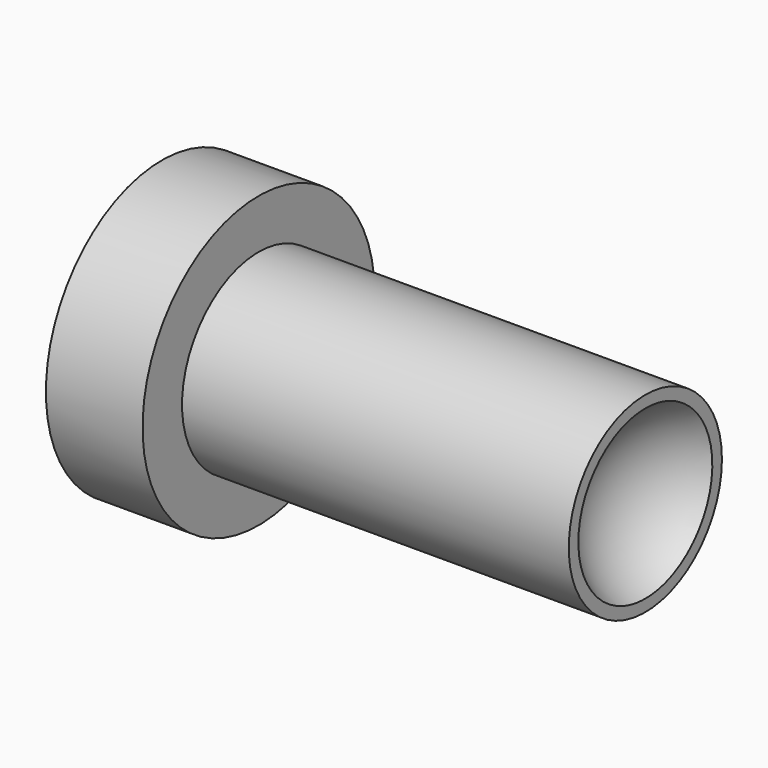
from build123d import *

# Parameters (mm, degrees)
F0_R     = 19.05
F1_DEPTH = 12.7
F2_R     = 12.573
F3_DEPTH = 50.8


with BuildPart() as f1:
    # F0 (on Right) → F1 (new body)
    with BuildSketch(Plane.YZ):
        Circle(F0_R)
    extrude(amount=F1_DEPTH)

    # F2 (on face) → F3 (join)
    with BuildSketch(Plane.YZ.offset(12.7)):
        Circle(F2_R)
    extrude(amount=F3_DEPTH)

    # F5 (on offset) → F6 (revolve, cut)
    with BuildSketch(Plane.YZ.offset(69.85)):
        with BuildLine():
            Line((0, 12.7), (0, -12.7))
            ThreePointArc((0, -12.7), (12.7, 0), (0, 12.7))
        make_face()
    revolve(axis=Axis((69.85, 0, 0), (0, 0, -1)), mode=Mode.SUBTRACT)


solid = f1.part
